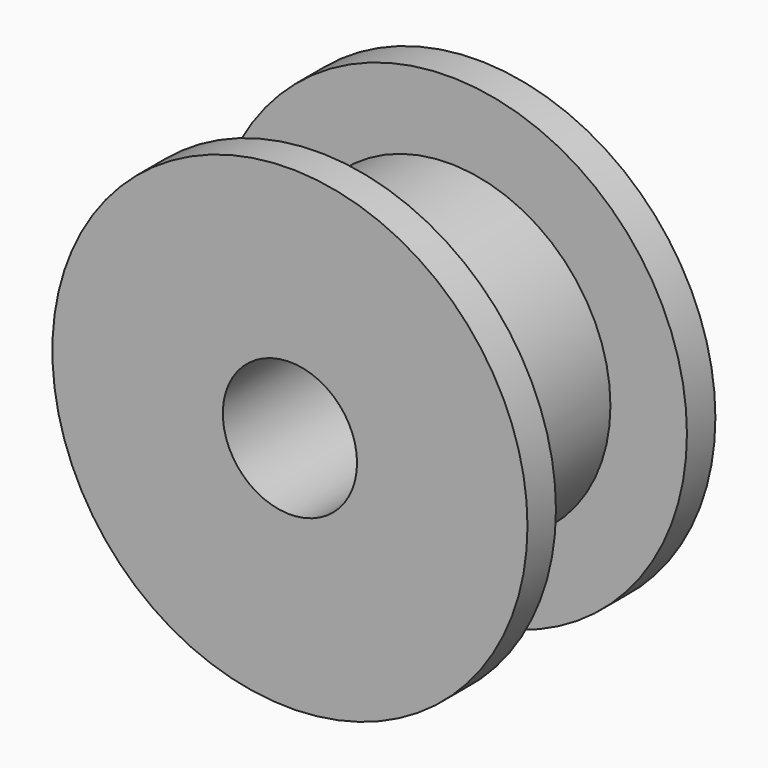
from build123d import *

# Parameters (mm, degrees)
F0_R     = 8.85
F0_R_2   = 6
F0_R_3   = 2.5
F1_DEPTH = 4.375
F2_DEPTH = 3.05


with BuildPart() as f1:
    # F0 (on Front) → F1 (new body, symmetric)
    with BuildSketch(Plane.XZ):
        with Locations((-54.154266, 41.905914)):
            Circle(F0_R)
        with Locations((-54.154266, 41.905914)):
            Circle(F0_R_2, mode=Mode.SUBTRACT)
        with Locations((-54.154266, 41.905914)):
            Circle(F0_R_2)
        with Locations((-54.154266, 41.905914)):
            Circle(F0_R_3, mode=Mode.SUBTRACT)
    extrude(amount=F1_DEPTH, both=True)

    # F0 (on Front) → F2 (cut, symmetric)
    with BuildSketch(Plane.XZ):
        with Locations((-54.154266, 41.905914)):
            Circle(F0_R)
        with Locations((-54.154266, 41.905914)):
            Circle(F0_R_2, mode=Mode.SUBTRACT)
    extrude(amount=F2_DEPTH, both=True, mode=Mode.SUBTRACT)


solid = f1.part
